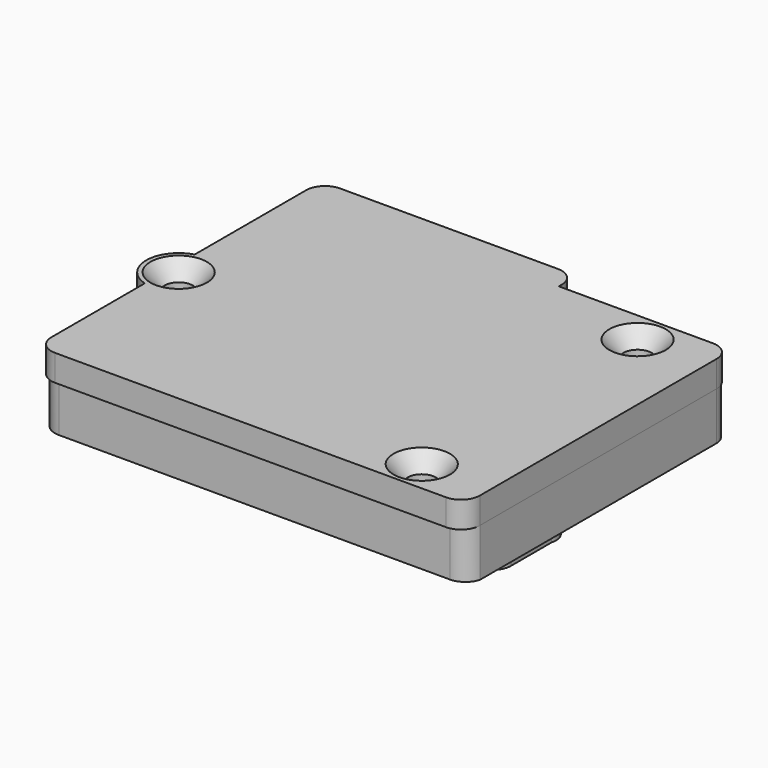
from build123d import *

# Parameters (mm, degrees)
F1_DEPTH       = 2.8
F2_D           = 3
F2_CSINK_D     = 6
F2_CSINK_ANGLE = 82
F4_DEPTH       = 5.1
F6_DEPTH       = 16
F7_R           = 1.25
F8_DEPTH       = 40


with BuildPart() as f1:
    # F0 (on Top) → F1 (new body)
    with BuildSketch(Plane.XY):
        with BuildLine():
            Line((-0.7529023737, 20.15), (-23.9529023737, 20.15))
            ThreePointArc((-23.9529023737, 20.15), (-25.367115936, 19.5642135624), (-25.9529023737, 18.15))
            Line((-25.9529023737, 18.15), (-25.9529023737, 3.3166247904))
            ThreePointArc((-25.9529023737, 3.3166247904), (-28.4529023737, 0), (-25.9529023737, -3.3166247904))
            Line((-25.9529023737, -3.3166247904), (-25.9529023737, -15.75))
            ThreePointArc((-25.9529023737, -15.75), (-25.367115936, -17.1642135624), (-23.9529023737, -17.75))
            Line((-23.9529023737, -17.75), (17.6470976263, -17.75))
            ThreePointArc((17.6470976263, -17.75), (19.0613111887, -17.1642135624), (19.6470976263, -15.75))
            Line((19.6470976263, -15.75), (19.6470976263, 15.75))
            ThreePointArc((19.6470976263, 15.75), (19.0613111887, 17.1642135624), (17.6470976263, 17.75))
            Line((17.6470976263, 17.75), (1.2470976263, 17.75))
            Line((1.2470976263, 17.75), (1.2470976263, 18.15))
            ThreePointArc((1.2470976263, 18.15), (0.6613111887, 19.5642135624), (-0.7529023737, 20.15))
        make_face()
    extrude(amount=-F1_DEPTH)

    # F2 (through all)
    with Locations(Plane.XY):
        with Locations((-25.0029023737, 0), (12.3470976263, 14.35), (12.3470976263, -14.35)):
            CounterSinkHole(F2_D / 2, F2_CSINK_D / 2, counter_sink_angle=F2_CSINK_ANGLE)


with BuildPart() as f4:
    # F3 (on face) → F4 (new body)
    with BuildSketch(Plane(origin=(0, 0, -2.8), x_dir=(1, 0, 0), z_dir=(0, 0, -1))):
        with BuildLine():
            Line((17.6470976263, 17.25), (-23.9529023737, 17.25))
            ThreePointArc((-23.9529023737, 17.25), (-25.2029023737, 16.8333333333), (-25.9529023737, 15.75))
            Line((-25.9529023737, 15.75), (-25.9529023737, 3.3166247904))
            Line((-25.9529023737, 3.3166247904), (-25.9529023737, 2.7928480088))
            ThreePointArc((-25.9529023737, 2.7928480088), (-27.9529023737, 0), (-25.9529023737, -2.7928480088))
            Line((-25.9529023737, -2.7928480088), (-25.9529023737, -3.3166247904))
            Line((-25.9529023737, -3.3166247904), (-25.9529023737, -18.15))
            ThreePointArc((-25.9529023737, -18.15), (-25.2029023737, -19.2333333333), (-23.9529023737, -19.65))
            Line((-23.9529023737, -19.65), (-0.96321007, -19.65))
            ThreePointArc((-0.96321007, -19.65), (0.5535734331, -18.9054098922), (0.8921952177, -17.25))
            Line((0.8921952177, -17.25), (17.6470976263, -17.25))
            ThreePointArc((17.6470976263, -17.25), (19.0220976263, -17), (19.6470976263, -15.75))
            Line((19.6470976263, -15.75), (19.6470976263, 15.75))
            ThreePointArc((19.6470976263, 15.75), (18.8970976263, 16.8333333333), (17.6470976263, 17.25))
        make_face()
    extrude(amount=F4_DEPTH)

    # F5 (on face) → F6 (join)
    with BuildSketch(Plane(origin=(0, 0, -7.9), x_dir=(1, 0, 0), z_dir=(0, 0, -1))):
        with BuildLine():
            Line((-25.9529023737, -11.85), (-25.9529023737, -18.15))
            ThreePointArc((-25.9529023737, -18.15), (-25.2029023737, -19.2333333333), (-23.9529023737, -19.65))
            Line((-23.9529023737, -19.65), (-0.96321007, -19.65))
            ThreePointArc((-0.96321007, -19.65), (0.5535734331, -18.9054098922), (0.8921952177, -17.25))
            Line((0.8921952177, -17.25), (0.8921952177, -11.85))
            ThreePointArc((0.8921952177, -11.85), (0.3064087801, -10.4357864376), (-1.1078047823, -9.85))
            Line((-1.1078047823, -9.85), (-23.9529023737, -9.85))
            ThreePointArc((-23.9529023737, -9.85), (-25.367115936, -10.4357864376), (-25.9529023737, -11.85))
        make_face()
    extrude(amount=F6_DEPTH)

    # F7 (on face) → F8 (join)
    with BuildSketch(Plane.YZ.offset(0.8921952177)):
        with Locations((14.4971305676, -22.1507988043)):
            Circle(F7_R)
    extrude(amount=-F8_DEPTH)


solid = Compound([f1.part, f4.part])
